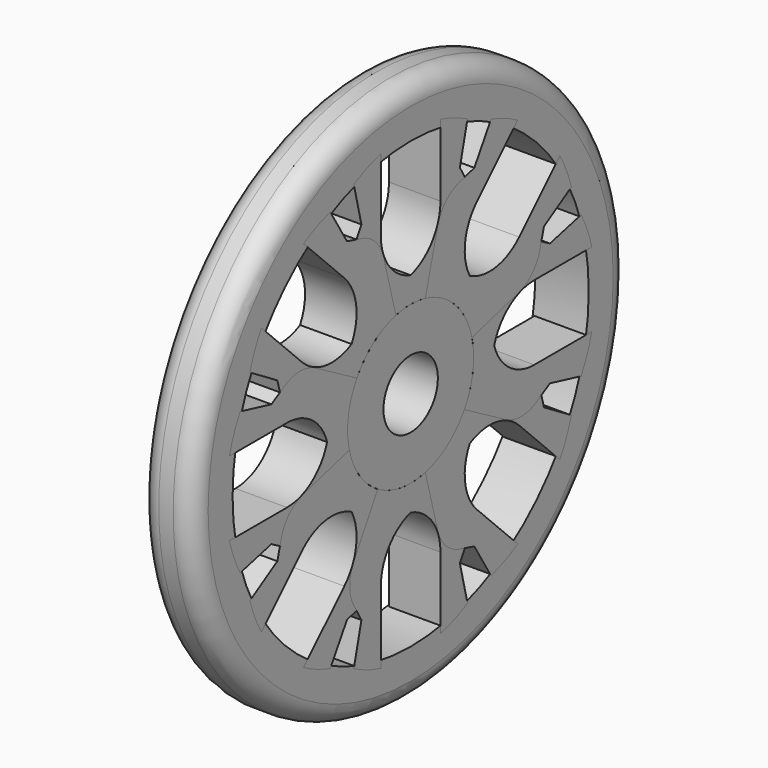
from build123d import *

# Parameters (mm, degrees)
F0_W     = 2.741599
F0_H     = 2.573714
F0_H_2   = 2.305674
F3_DEPTH = 2.65
F4_COUNT = 8
F5_R     = 1
F6_R     = 1


with BuildPart() as f1:
    # F0 (on Top) → F1 (revolve)
    with BuildSketch(Plane.XY):
        with Locations((1.370799, 12.736707)):
            Rectangle(F0_W, F0_H)
        with Locations((1.370799, 2.902837)):
            Rectangle(F0_W, F0_H_2)
    revolve(axis=Axis((-3.065624, 0, 0), (1, 0, 0)))

    # F5
    f5_edges = [f1.edges().sort_by_distance(p)[0] for p in [
        (0, -14.023564, 0),
    ]]
    fillet(f5_edges, radius=F5_R)

    # F6
    f6_edges = [f1.edges().sort_by_distance(p)[0] for p in [
        (2.741599, -14.023564, 0),
    ]]
    fillet(f6_edges, radius=F6_R)


with BuildPart() as f3:
    # F2 (on face) → F3 (new body)
    with BuildSketch(Plane.YZ.offset(2.741599)):
        with BuildLine():
            Line((-3.649245, 6.107649), (-2.118756, 3.458232))
            ThreePointArc((-2.118756, 3.458232), (0, 4.055674), (2.118756, 3.458232))
            Line((2.118756, 3.458232), (3.649245, 6.107649))
            ThreePointArc((3.649245, 6.107649), (3.917424, 7.101652), (3.655625, 8.097353))
            Line((3.655625, 8.097353), (3.16605, 8.957542))
            Line((3.16605, 8.957542), (3.655625, 10.967346))
            add(Edge.make_bspline(
                [(3.655625, 10.967346), (3.287986, 11.158861), (2.646486, 11.479345), (1.917434, 11.650283)],
                knots=[0, 0, 0, 0, 2.013441, 2.013441, 2.013441, 2.013441], degree=3))
            Line((1.917434, 11.650283), (1.917434, 7.948267))
            ThreePointArc((1.917434, 7.948267), (1.385472, 6.342423), (0, 5.37176))
            ThreePointArc((0, 5.37176), (-1.385472, 6.342423), (-1.917434, 7.948267))
            Line((-1.917434, 7.948267), (-1.917434, 11.650283))
            add(Edge.make_bspline(
                [(-3.655625, 10.967346), (-3.287986, 11.158861), (-2.646486, 11.479345), (-1.917434, 11.650283)],
                knots=[0, 0, 0, 0, 2.013441, 2.013441, 2.013441, 2.013441], degree=3))
            Line((-3.655625, 10.967346), (-3.16605, 8.957542))
            Line((-3.16605, 8.957542), (-3.655625, 8.097353))
            ThreePointArc((-3.655625, 8.097353), (-3.917424, 7.101652), (-3.649245, 6.107649))
        make_face()
    extrude(amount=-F3_DEPTH)


with BuildPart() as f4_1:
    # F4: instance of F3
    add(f3.part.rotate(Axis((2.741599, 0, 0), (1, 0, 0)), 1 * 360 / F4_COUNT))


with BuildPart() as f4_2:
    # F4: instance of F3
    add(f3.part.rotate(Axis((2.741599, 0, 0), (1, 0, 0)), 2 * 360 / F4_COUNT))


with BuildPart() as f4_3:
    # F4: instance of F3
    add(f3.part.rotate(Axis((2.741599, 0, 0), (1, 0, 0)), 3 * 360 / F4_COUNT))


with BuildPart() as f4_4:
    # F4: instance of F3
    add(f3.part.rotate(Axis((2.741599, 0, 0), (1, 0, 0)), 4 * 360 / F4_COUNT))


with BuildPart() as f4_5:
    # F4: instance of F3
    add(f3.part.rotate(Axis((2.741599, 0, 0), (1, 0, 0)), 5 * 360 / F4_COUNT))


with BuildPart() as f4_6:
    # F4: instance of F3
    add(f3.part.rotate(Axis((2.741599, 0, 0), (1, 0, 0)), 6 * 360 / F4_COUNT))


with BuildPart() as f4_7:
    # F4: instance of F3
    add(f3.part.rotate(Axis((2.741599, 0, 0), (1, 0, 0)), 7 * 360 / F4_COUNT))


solid = Compound([f1.part, f3.part, f4_1.part, f4_2.part, f4_3.part, f4_4.part, f4_5.part, f4_6.part, f4_7.part])
